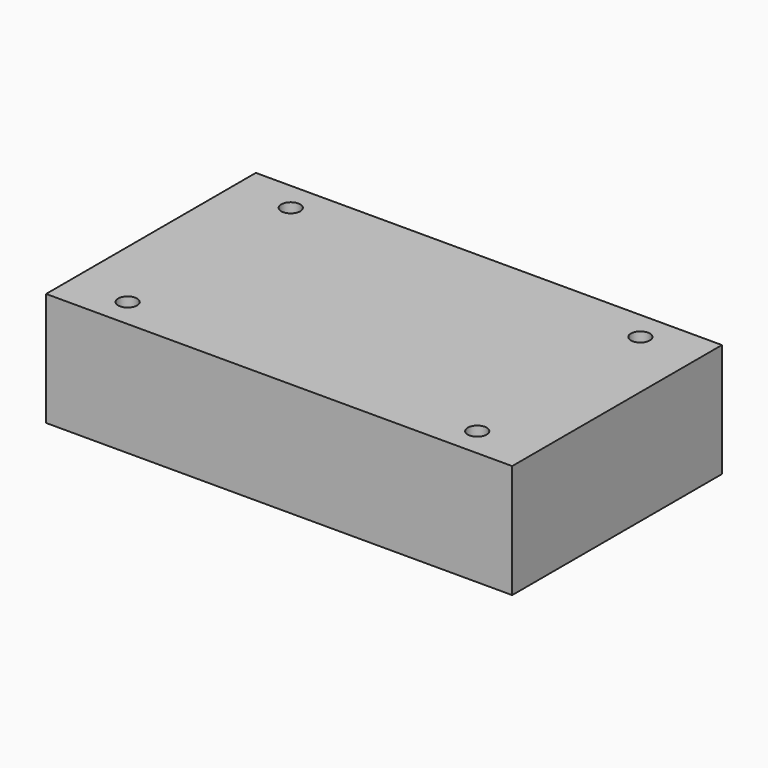
from build123d import *

# Parameters (mm, degrees)
F0_W     = 40.64
F0_H     = 22.86
F1_DEPTH = 9.906
F2_R     = 0.8255
F3_DEPTH = 9.906


with BuildPart() as f1:
    # F0 (on Top) → F1 (new body)
    with BuildSketch(Plane.XY):
        with Locations((20.32, 11.43)):
            Rectangle(F0_W, F0_H)
    extrude(amount=F1_DEPTH)

    # F2 (on face) → F3 (cut, through all)
    with BuildSketch(Plane.XY.offset(9.906)):
        with Locations((5.08, 20.32)):
            Circle(F2_R)
        with Locations((35.56, 20.32)):
            Circle(F2_R)
        with Locations((35.56, 2.54)):
            Circle(F2_R)
        with Locations((5.08, 2.54)):
            Circle(F2_R)
    extrude(amount=-F3_DEPTH, mode=Mode.SUBTRACT)


solid = f1.part
